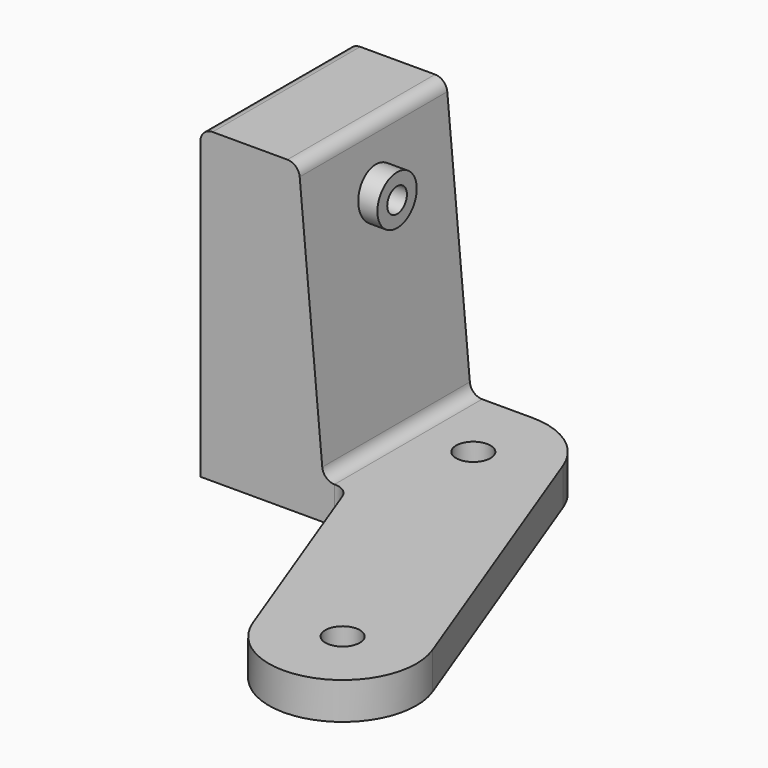
from build123d import *

# Parameters (mm, degrees)
F0_R     = 1.4
F0_W     = 10
F0_H     = 15
F3_DEPTH = 3
F2_W     = 8
F2_H     = 15
F5_R     = 2
F5_R_2   = 1
F6_DEPTH = 10
F7_DEPTH = 15
F8_R     = 1


with BuildPart() as f3:
    # F0 (on Top) → F3 (new body)
    with BuildSketch(Plane.XY):
        with BuildLine():
            Line((-2.3220218662, -1.1490219488), (4.1030128133, -18.2824477607))
            ThreePointArc((4.1030128133, -18.2824477607), (11.8277285282, -21.7936821766), (15.3389629441, -14.0689664616))
            Line((15.3389629441, -14.0689664616), (5.9639629441, 10.9310335384))
            ThreePointArc((5.9639629441, 10.9310335384), (3.7635569052, 13.7558465942), (0.3459878787, 14.8242928889))
            Line((0.3459878787, 14.8242928889), (-4.6540121213, 14.8242928889))
            Line((-4.6540121213, 14.8242928889), (-4.6540121213, -0.1757071111))
            Line((-4.6540121213, -0.1757071111), (-3.7265156326, -0.1757071111))
            ThreePointArc((-3.7265156326, -0.1757071111), (-2.8721233759, -0.4428186848), (-2.3220218662, -1.1490219488))
        make_face()
        with Locations((9.7209878787, -16.1757071111)):
            Circle(F0_R, mode=Mode.SUBTRACT)
        with Locations((0.3459878787, 8.8242928889)):
            Circle(F0_R, mode=Mode.SUBTRACT)
        with Locations((-9.6540121213, 7.3242928889)):
            Rectangle(F0_W, F0_H)
    extrude(amount=-F3_DEPTH)

    # F0 (on Top) → F4 section 0
    with BuildSketch(Plane.XY):
        with Locations((-9.6540121213, 7.3242928889)):
            Rectangle(F0_W, F0_H)
    # F2 (on offset) → F4 section 1
    with BuildSketch(Plane.XY.offset(22)):
        with Locations((-10.6540121213, 7.3242928889)):
            Rectangle(F2_W, F2_H)
    loft()

    # F5 (on face) → F6 (join)
    with BuildSketch(Plane(origin=(-14.6540121213, 0, 0), x_dir=(0, -1, 0), z_dir=(-1, 0, 0))):
        with Locations((-7.3242928889, 17)):
            Circle(F5_R)
        with Locations((-7.3242928889, 17)):
            Circle(F5_R_2, mode=Mode.SUBTRACT)
    extrude(amount=-F6_DEPTH)

    # F5 (on face) → F7 (cut)
    with BuildSketch(Plane(origin=(-14.6540121213, 0, 0), x_dir=(0, -1, 0), z_dir=(-1, 0, 0))):
        with Locations((-7.3242928889, 17)):
            Circle(F5_R_2)
    extrude(amount=-F7_DEPTH, mode=Mode.SUBTRACT)

    # F8
    f8_edges = [f3.edges().sort_by_distance(p)[0] for p in [
        (-6.654012, 7.324293, 22),
        (-4.654012, 7.324293, 0),
        (-14.654012, 7.324293, 22),
    ]]
    fillet(f8_edges, radius=F8_R)


solid = f3.part
